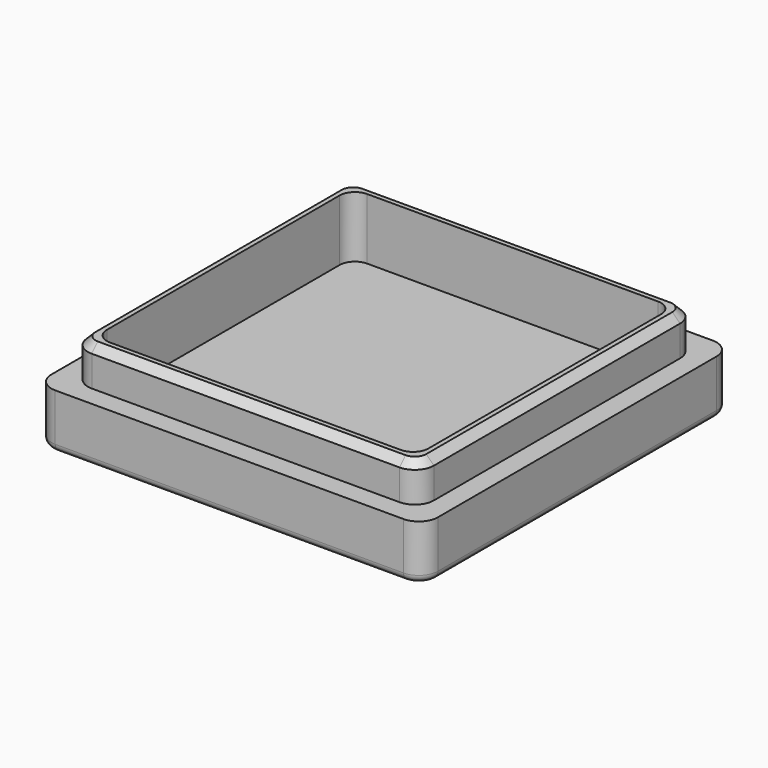
from build123d import *

# Parameters (mm, degrees)
F0_W          = 50.5
F0_H          = 50.5
F1_DEPTH      = 7.2
F2_W          = 45.2
F2_H          = 45.2
F3_DEPTH      = 5
F4_W          = 42
F4_H          = 42
F5_DEPTH      = 5
F5_DEPTH_BACK = 3
F6_R          = 2.5
F7_R          = 2
F8_SIZE       = 1
F9_R          = 1


with BuildPart() as f1:
    # F0 (on Top) → F1 (new body)
    with BuildSketch(Plane.XY):
        Rectangle(F0_W, F0_H)
    extrude(amount=F1_DEPTH)

    # F2 (on face) → F3 (join)
    with BuildSketch(Plane.XY.offset(7.2)):
        Rectangle(F2_W, F2_H)
    extrude(amount=F3_DEPTH)

    # F4 (on face) → F5 (cut, two sides)
    with BuildSketch(Plane.XY.offset(7.2)) as f5_sk:
        Rectangle(F4_W, F4_H)
    extrude(amount=F5_DEPTH, mode=Mode.SUBTRACT)
    extrude(f5_sk.sketch, amount=-F5_DEPTH_BACK, mode=Mode.SUBTRACT)

    # F6
    f6_edges = [f1.edges().sort_by_distance(p)[0] for p in [
        (-25.25, 25.25, 3.6),
        (-25.25, -25.25, 3.6),
        (25.25, -25.25, 3.6),
        (25.25, 25.25, 3.6),
        (-22.6, 22.6, 9.7),
        (-22.6, -22.6, 9.7),
        (22.6, -22.6, 9.7),
        (22.6, 22.6, 9.7),
    ]]
    fillet(f6_edges, radius=F6_R)

    # F7
    f7_edges = [f1.edges().sort_by_distance(p)[0] for p in [
        (-21, 21, 8.2),
        (21, 21, 8.2),
        (21, -21, 8.2),
        (-21, -21, 8.2),
    ]]
    fillet(f7_edges, radius=F7_R)

    # F8
    f8_edges = [f1.edges().sort_by_distance(p)[0] for p in [
        (-22.6, 0, 12.2),
    ]]
    chamfer(f8_edges, length=F8_SIZE)

    # F9
    f9_edges = [f1.edges().sort_by_distance(p)[0] for p in [
        (0, 25.25, 0),
    ]]
    fillet(f9_edges, radius=F9_R)


solid = f1.part
